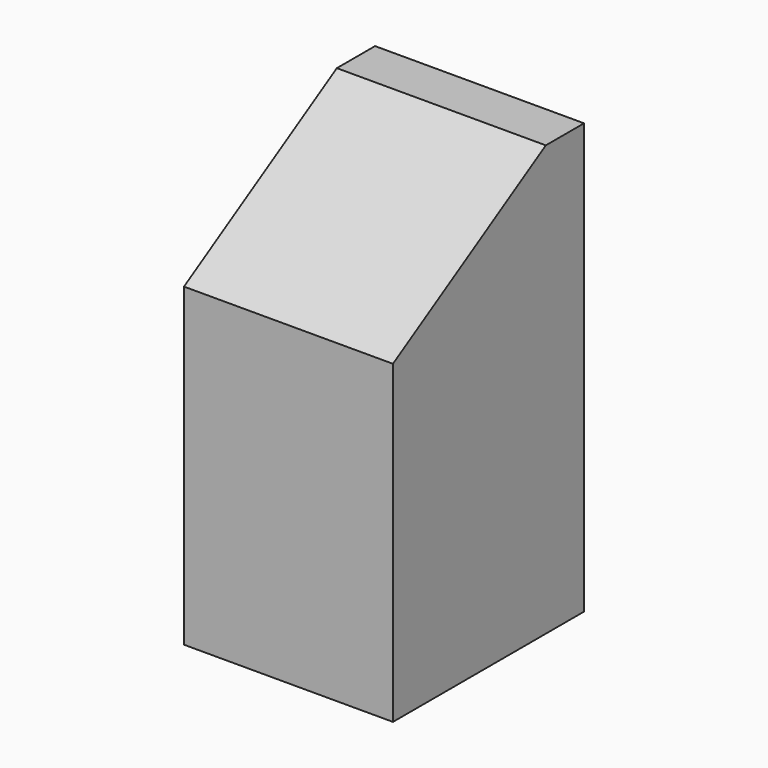
from build123d import *

# Parameters (mm, degrees)
SKETCH028_W     = 16
SKETCH028_H     = 16
PAD015_DEPTH    = 28.8
POCKET013_DEPTH = 16
SKETCH113_W     = 1
SKETCH113_H     = 16
POCKET029_DEPTH = 30
PAD136_DEPTH    = 14


with BuildPart() as part:
    # Sketch028 (on Face52 of Binder011) → Pad015 (new body)
    with BuildSketch(Plane.XY.offset(-28.8)):
        with Locations((32, -8)):
            Rectangle(SKETCH028_W, SKETCH028_H)
    extrude(amount=PAD015_DEPTH)

    # Sketch029 (on Face3 of Pad015) → Pocket013 (cut)
    with BuildSketch(Plane.YZ.offset(40)):
        Polygon((-16, 0), (-16, -9.6), (0, 0), align=None)
    extrude(amount=-POCKET013_DEPTH, mode=Mode.SUBTRACT)

    # Sketch113 (on Face2 of Pocket013) → Pocket029 (cut)
    with BuildSketch(Plane(origin=(0, 0, -28.8), x_dir=(1, 0, 0), z_dir=(0, 0, -1))):
        with Locations((24.5, 8)):
            Rectangle(SKETCH113_W, SKETCH113_H)
        with Locations((39.5, 8)):
            Rectangle(SKETCH113_W, SKETCH113_H)
    extrude(amount=-POCKET029_DEPTH, mode=Mode.SUBTRACT)

    # Sketch136 (on Face3 of Pocket029) → Pad136 (join)
    with BuildSketch(Plane.YZ.offset(39)):
        Polygon((0, 0), (-3.2, 0), (-16, -7.68), (-16, -10.88), (-3.2, -3.2), (0, -3.2), align=None)
    extrude(amount=-PAD136_DEPTH)


solid = part.part
